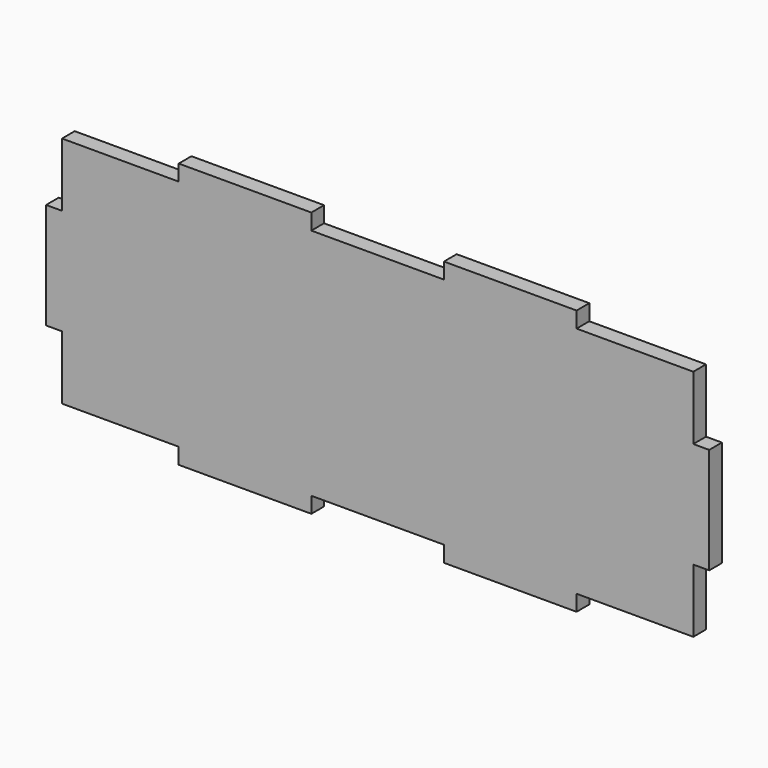
from build123d import *

# Parameters (mm, degrees)
F1_DEPTH = 6


with BuildPart() as f1:
    # F0 (on Front) → F1 (new body)
    with BuildSketch(Plane.XZ):
        Polygon((-64.488803, -10.787621), (-64.488803, -34.787621), (-20.488803, -34.787621), (-20.488803, -40.787621), (29.511197, -40.787621), (29.511197, -34.787621), (79.511197, -34.787621), (79.511197, -40.787621), (129.511197, -40.787621), (129.511197, -34.787621), (173.511197, -34.787621), (173.511197, -10.787621), (179.511197, -10.787621), (179.511197, 29.212379), (173.511197, 29.212379), (173.511197, 53.212379), (129.511197, 53.212379), (129.511197, 59.212379), (79.511197, 59.212379), (79.511197, 53.212379), (29.511197, 53.212379), (29.511197, 59.212379), (-20.488803, 59.212379), (-20.488803, 53.212379), (-64.488803, 53.212379), (-64.488803, 29.212379), (-70.488803, 29.212379), (-70.488803, -10.787621), align=None)
    extrude(amount=F1_DEPTH)


solid = f1.part
